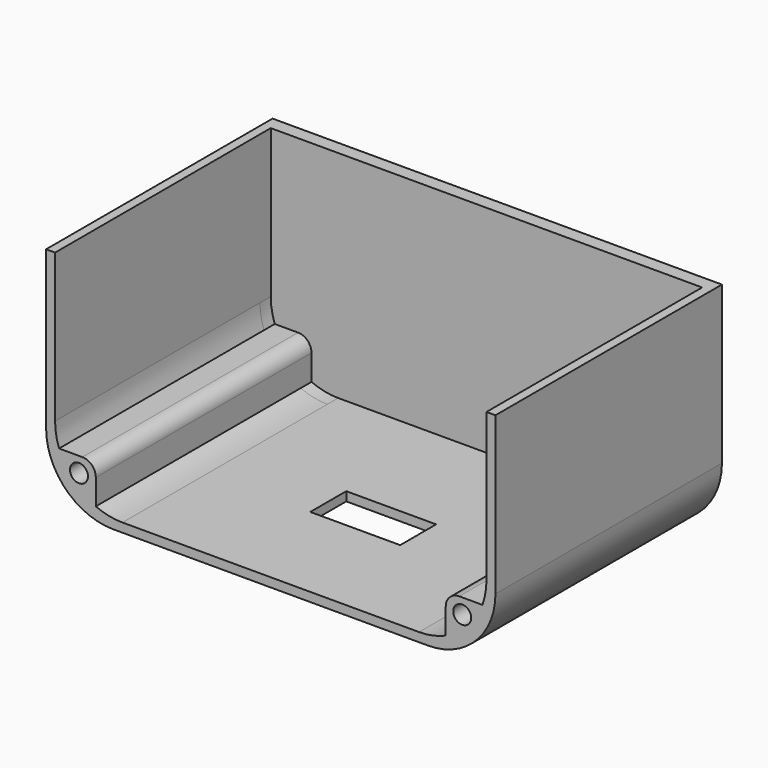
from build123d import *

# Parameters (mm, degrees)
F0_W           = 100
F0_H           = 50
F0_W_2         = 96
F0_H_2         = 46
F1_DEPTH       = 65
F2_W           = 100
F2_H           = 8.5998633876
F3_DEPTH       = 62.6
F4_W           = 100
F4_H           = 50
F5_DEPTH       = 3
F6_W           = 96
F6_H           = 53.983375689
F7_DEPTH       = 80.8
F8_W           = 100
F8_H           = 100
F9_DEPTH       = 5
F10_W          = 178.9870522916
F10_H          = 171.902321279
F11_DEPTH      = 2
F12_W          = 20
F12_H          = 10
F13_DEPTH      = 25
F14_R          = 2.2
F15_DEPTH      = 3
F16_R          = 5
F17_R          = 15
F18_R          = 1.5
F19_DEPTH      = 25
F20_W          = 18.0335491896
F20_H          = 117.1614909545
F21_DEPTH      = 124.6
F21_DEPTH_BACK = 25
F23_DEPTH      = 57
F24_R          = 2
F25_DEPTH      = 57
F27_DEPTH      = 3
F29_DEPTH      = 3
F30_R          = 3


with BuildPart() as f1:
    # F0 (on Front) → F1 (new body)
    with BuildSketch(Plane.XZ):
        with Locations((50, 25)):
            Rectangle(F0_W, F0_H)
        with Locations((50, 25)):
            Rectangle(F0_W_2, F0_H_2, mode=Mode.SUBTRACT)
    extrude(amount=F1_DEPTH)

    # F2 (on face) → F3 (cut)
    with BuildSketch(Plane.XZ.offset(65)):
        with Locations((50, -4.2999316938)):
            Rectangle(F2_W, F2_H)
    extrude(amount=-F3_DEPTH, mode=Mode.SUBTRACT)

    # F4 (on face) → F5 (join)
    with BuildSketch(Plane(origin=(0, 0, 0), x_dir=(-1, 0, 0), z_dir=(0, 1, 0))):
        with Locations((-50, 25)):
            Rectangle(F4_W, F4_H)
    extrude(amount=-F5_DEPTH)

    # F6 (on face) → F7 (cut)
    with BuildSketch(Plane.XZ.offset(3)):
        with Locations((50, 28.9916878445)):
            Rectangle(F6_W, F6_H)
    extrude(amount=F7_DEPTH, mode=Mode.SUBTRACT)

    # F8 (on face) → F9 (join)
    with BuildSketch(Plane.XZ.offset(65)):
        with Locations((50, 50)):
            Rectangle(F8_W, F8_H)
    extrude(amount=-F9_DEPTH)

    # F10 (on face) → F11 (cut)
    with BuildSketch(Plane.XZ.offset(65)):
        with Locations((42.4427408725, 49.3266619742)):
            Rectangle(F10_W, F10_H)
    extrude(amount=-F11_DEPTH, mode=Mode.SUBTRACT)

    # F12 (on face) → F13 (cut)
    with BuildSketch(Plane(origin=(0, 0, 0), x_dir=(1, 0, 0), z_dir=(0, 0, -1))):
        with Locations((50, 31.5)):
            Rectangle(F12_W, F12_H)
    extrude(amount=-F13_DEPTH, mode=Mode.SUBTRACT)

    # F14 (on face) → F15 (join)
    with BuildSketch(Plane.XZ.offset(63)):
        with BuildLine():
            Line((106, 60.561312139), (105.3350197713, 60.561312139))
            ThreePointArc((105.3350197713, 60.561312139), (105.6675098856, 60.5502449231), (106, 60.561312139))
        make_face()
        with BuildLine():
            Line((100, 60.561312139), (105.3350197713, 60.561312139))
            Line((105.3350197713, 60.561312139), (106, 60.561312139))
            ThreePointArc((106, 60.561312139), (110.6649022052, 65.7117070069), (105.6772652089, 70.5502354065))
            Line((105.6772652089, 70.5502354065), (100, 70.561312139))
            Line((100, 70.561312139), (100, 60.561312139))
        make_face()
        with Locations((105.6675098856, 65.5502449231)):
            Circle(F14_R, mode=Mode.SUBTRACT)
        with BuildLine():
            Line((-5.3350197713, 60.561312139), (0, 60.561312139))
            Line((0, 60.561312139), (0, 70.561312139))
            Line((0, 70.561312139), (-5.6772652089, 70.5502354065))
            ThreePointArc((-5.6772652089, 70.5502354065), (-10.6649022052, 65.7117070069), (-6, 60.561312139))
            Line((-6, 60.561312139), (-5.3350197713, 60.561312139))
        make_face()
        with Locations((-5.6675098856, 65.5502449231)):
            Circle(F14_R, mode=Mode.SUBTRACT)
        with BuildLine():
            ThreePointArc((-6, 60.561312139), (-5.6675098856, 60.5502449231), (-5.3350197713, 60.561312139))
            Line((-5.3350197713, 60.561312139), (-6, 60.561312139))
        make_face()
    extrude(amount=-F15_DEPTH)

    # F16
    f16_edges = [f1.edges().sort_by_distance(p)[0] for p in [
        (100, -61.5, 60.561312),
        (100, -61.5, 70.561312),
        (0, -61.5, 60.561312),
        (0, -61.5, 70.561312),
    ]]
    fillet(f16_edges, radius=F16_R)

    # F17
    f17_edges = [f1.edges().sort_by_distance(p)[0] for p in [
        (98, -31.5, 2),
        (2, -31.5, 2),
        (100, -31.5, 0),
        (0, -31.5, 0),
    ]]
    fillet(f17_edges, radius=F17_R)

    # F18 (on face) → F19 (cut)
    with BuildSketch(Plane.XZ.offset(63)):
        with Locations((85, 15)):
            Circle(F18_R)
        with Locations((85, 23)):
            Circle(F18_R)
        with Locations((85, 31)):
            Circle(F18_R)
        with Locations((85, 39)):
            Circle(F18_R)
        with Locations((85, 47)):
            Circle(F18_R)
        with Locations((77, 15)):
            Circle(F18_R)
        with Locations((77, 23)):
            Circle(F18_R)
        with Locations((77, 31)):
            Circle(F18_R)
        with Locations((77, 39)):
            Circle(F18_R)
        with Locations((77, 47)):
            Circle(F18_R)
        with Locations((69, 15)):
            Circle(F18_R)
        with Locations((69, 23)):
            Circle(F18_R)
        with Locations((69, 31)):
            Circle(F18_R)
        with Locations((69, 39)):
            Circle(F18_R)
        with Locations((69, 47)):
            Circle(F18_R)
        with Locations((61, 15)):
            Circle(F18_R)
        with Locations((61, 23)):
            Circle(F18_R)
        with Locations((61, 31)):
            Circle(F18_R)
        with Locations((61, 39)):
            Circle(F18_R)
        with Locations((61, 47)):
            Circle(F18_R)
        with Locations((53, 15)):
            Circle(F18_R)
        with Locations((53, 23)):
            Circle(F18_R)
        with Locations((53, 31)):
            Circle(F18_R)
        with Locations((53, 39)):
            Circle(F18_R)
        with Locations((53, 47)):
            Circle(F18_R)
        with Locations((45, 15)):
            Circle(F18_R)
        with Locations((45, 23)):
            Circle(F18_R)
        with Locations((45, 31)):
            Circle(F18_R)
        with Locations((45, 39)):
            Circle(F18_R)
        with Locations((45, 47)):
            Circle(F18_R)
        with Locations((37, 15)):
            Circle(F18_R)
        with Locations((37, 23)):
            Circle(F18_R)
        with Locations((37, 31)):
            Circle(F18_R)
        with Locations((37, 39)):
            Circle(F18_R)
        with Locations((37, 47)):
            Circle(F18_R)
        with Locations((29, 15)):
            Circle(F18_R)
        with Locations((29, 23)):
            Circle(F18_R)
        with Locations((29, 31)):
            Circle(F18_R)
        with Locations((29, 39)):
            Circle(F18_R)
        with Locations((29, 47)):
            Circle(F18_R)
        with Locations((21, 15)):
            Circle(F18_R)
        with Locations((21, 23)):
            Circle(F18_R)
        with Locations((21, 31)):
            Circle(F18_R)
        with Locations((21, 39)):
            Circle(F18_R)
        with Locations((21, 47)):
            Circle(F18_R)
        with Locations((13, 15)):
            Circle(F18_R)
        with Locations((13, 23)):
            Circle(F18_R)
        with Locations((13, 31)):
            Circle(F18_R)
        with Locations((13, 39)):
            Circle(F18_R)
        with Locations((13, 47)):
            Circle(F18_R)
    extrude(amount=-F19_DEPTH, mode=Mode.SUBTRACT)

    # F20 (on face) → F21 (cut, two sides)
    with BuildSketch(Plane(origin=(0, 0, 0), x_dir=(0, -1, 0), z_dir=(-1, 0, 0))) as f21_sk:
        with Locations((69.0167745948, 41.4192545228)):
            Rectangle(F20_W, F20_H)
    extrude(amount=-F21_DEPTH, mode=Mode.SUBTRACT)
    extrude(f21_sk.sketch, amount=F21_DEPTH_BACK, mode=Mode.SUBTRACT)

    # F22 (on face) → F23 (join, through all)
    with BuildSketch(Plane.XZ.offset(3)):
        Polygon((88.93782569, 11.9127326198), (88.93782569, 3.2253048645), (97.1109783715, 6.1686190363), (97.1109783715, 11.9127326198), align=None)
        Polygon((2.8890216285, 11.9127326198), (2.8890216285, 6.1686190363), (11.06217431, 3.2253048645), (11.06217431, 11.9127326198), align=None)
    extrude(amount=F23_DEPTH)

    # F24 (on face) → F25 (cut, through all)
    with BuildSketch(Plane.XZ.offset(60)):
        with Locations((92.6101825469, 8.5401255637)):
            Circle(F24_R)
        with Locations((7.32162036, 8.5401255637)):
            Circle(F24_R)
    extrude(amount=-F25_DEPTH, mode=Mode.SUBTRACT)

    # F26 (on face) → F27 (join)
    with BuildSketch(Plane(origin=(0, 0, 0), x_dir=(-1, 0, 0), z_dir=(0, 1, 0))):
        with BuildLine():
            ThreePointArc((-100, 15), (-95.6066017178, 4.3933982822), (-85, 0))
            Line((-85, 0), (-15, 0))
            ThreePointArc((-15, 0), (-4.3933982822, 4.3933982822), (0, 15))
            Line((0, 15), (0, 50))
            Line((0, 50), (-100, 50))
            Line((-100, 50), (-100, 15))
        make_face()
    extrude(amount=F27_DEPTH)

    # F28 (on face) → F29 (cut)
    with BuildSketch(Plane.XZ.offset(3)):
        with BuildLine():
            ThreePointArc((2, 17), (2.2239268482, 14.4178183229), (2.8890216285, 11.9127326198))
            Line((2.8890216285, 11.9127326198), (11.06217431, 11.9127326198))
            Line((11.06217431, 11.9127326198), (11.06217431, 3.2253048645))
            ThreePointArc((11.06217431, 3.2253048645), (13.9685339382, 2.3095196295), (17, 2))
            Line((17, 2), (83, 2))
            ThreePointArc((83, 2), (86.0314660618, 2.3095196295), (88.93782569, 3.2253048645))
            Line((88.93782569, 3.2253048645), (88.93782569, 11.9127326198))
            Line((88.93782569, 11.9127326198), (97.1109783715, 11.9127326198))
            ThreePointArc((97.1109783715, 11.9127326198), (97.7760731518, 14.4178183229), (98, 17))
            Line((98, 17), (98, 50))
            Line((98, 50), (2, 50))
            Line((2, 50), (2, 17))
        make_face()
    extrude(amount=-F29_DEPTH, mode=Mode.SUBTRACT)

    # F30
    f30_edges = [f1.edges().sort_by_distance(p)[0] for p in [
        (88.937826, -30, 11.912733),
        (11.062174, -30, 11.912733),
    ]]
    fillet(f30_edges, radius=F30_R)


solid = f1.part
